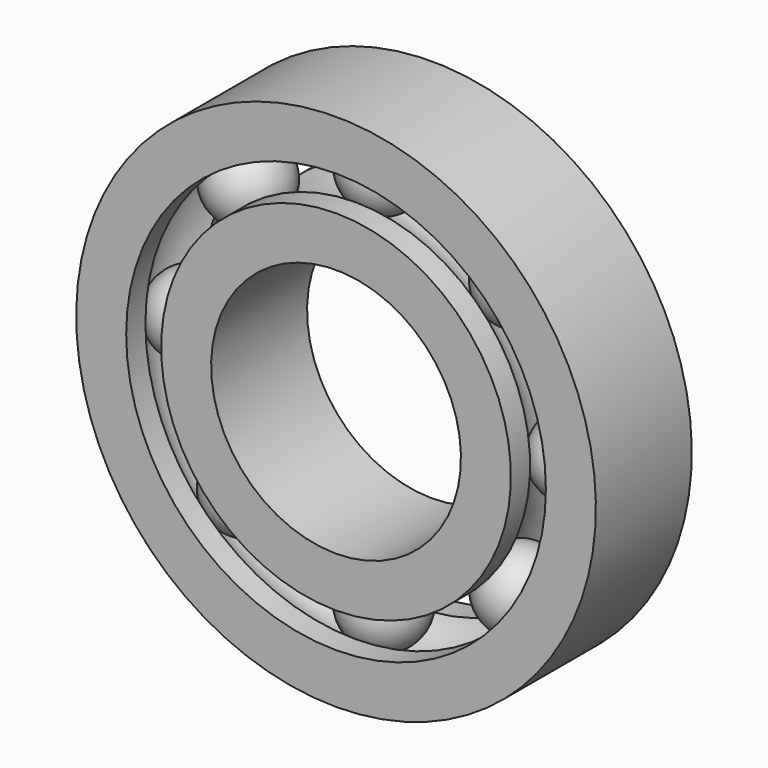
from build123d import *

# Parameters (mm, degrees)
F5_COUNT = 8


with BuildPart() as f1:
    # F0 (on Right) → F1 (revolve)
    with BuildSketch(Plane.YZ):
        with BuildLine():
            ThreePointArc((-3.596874, -17.5), (0, -15.25), (3.596874, -17.5))
            Line((3.596874, -17.5), (6, -17.5))
            Line((6, -17.5), (6, -12.5))
            Line((6, -12.5), (-6, -12.5))
            Line((-6, -12.5), (-6, -17.5))
            Line((-6, -17.5), (-3.596874, -17.5))
        make_face()
        with BuildLine():
            Line((-6, -26), (0, -26))
            Line((0, -26), (6, -26))
            Line((6, -26), (6, -21))
            Line((6, -21), (3.596874, -21))
            ThreePointArc((3.596874, -21), (0, -23.25), (-3.596874, -21))
            Line((-3.596874, -21), (-6, -21))
            Line((-6, -21), (-6, -26))
        make_face()
    revolve(axis=Axis((0, -9.126958, 0), (0, -1, 0)))


with BuildPart() as f3:
    # F2 (on Front) → F3 (revolve)
    with BuildSketch(Plane.XZ):
        with BuildLine():
            Line((0, -23.25), (0, -15.25))
            ThreePointArc((0, -15.25), (-4, -19.25), (0, -23.25))
        make_face()
    revolve(axis=Axis((0, 0, -12.733043), (0, 0, 1)))


with BuildPart() as f5_1:
    # F5: instance of F3
    add(f3.part.rotate(Axis((0, -10.078921, 0), (0, -1, 0)), 1 * 360 / F5_COUNT))


with BuildPart() as f5_2:
    # F5: instance of F3
    add(f3.part.rotate(Axis((0, -10.078921, 0), (0, -1, 0)), 2 * 360 / F5_COUNT))


with BuildPart() as f5_3:
    # F5: instance of F3
    add(f3.part.rotate(Axis((0, -10.078921, 0), (0, -1, 0)), 3 * 360 / F5_COUNT))


with BuildPart() as f5_4:
    # F5: instance of F3
    add(f3.part.rotate(Axis((0, -10.078921, 0), (0, -1, 0)), 4 * 360 / F5_COUNT))


with BuildPart() as f5_5:
    # F5: instance of F3
    add(f3.part.rotate(Axis((0, -10.078921, 0), (0, -1, 0)), 5 * 360 / F5_COUNT))


with BuildPart() as f5_6:
    # F5: instance of F3
    add(f3.part.rotate(Axis((0, -10.078921, 0), (0, -1, 0)), 6 * 360 / F5_COUNT))


with BuildPart() as f5_7:
    # F5: instance of F3
    add(f3.part.rotate(Axis((0, -10.078921, 0), (0, -1, 0)), 7 * 360 / F5_COUNT))


solid = Compound([f1.part, f3.part, f5_1.part, f5_2.part, f5_3.part, f5_4.part, f5_5.part, f5_6.part, f5_7.part])
